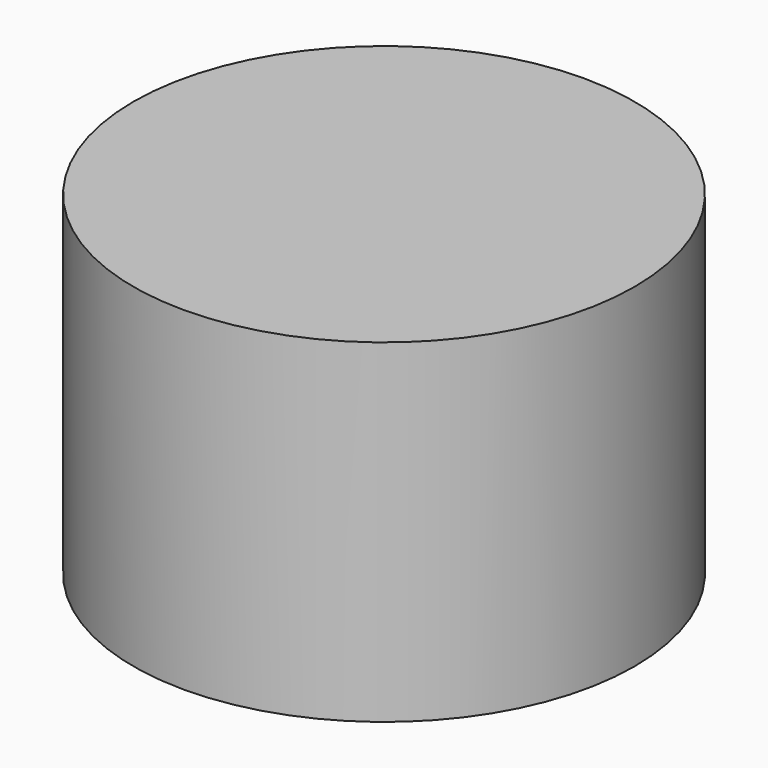
from build123d import *

# Parameters (mm, degrees)
F0_R     = 304.8
F0_W     = 139.7
F0_H     = 139.7
F1_DEPTH = 406.4
F2_W     = 139.7
F2_H     = 139.7
F3_DEPTH = 203.2


with BuildPart() as f1:
    # F0 (on Top) → F1 (new body)
    with BuildSketch(Plane.XY):
        with Locations((-64.029319, 93.181163)):
            Circle(F0_R)
        with Locations((-64.029319, 93.181163)):
            Rectangle(F0_W, F0_H, mode=Mode.SUBTRACT)
    extrude(amount=F1_DEPTH)

    # F2 (on face) → F3 (join)
    with BuildSketch(Plane.XY.offset(406.4)):
        with Locations((-64.029319, 93.181163)):
            Rectangle(F2_W, F2_H)
    extrude(amount=-F3_DEPTH)


solid = f1.part
